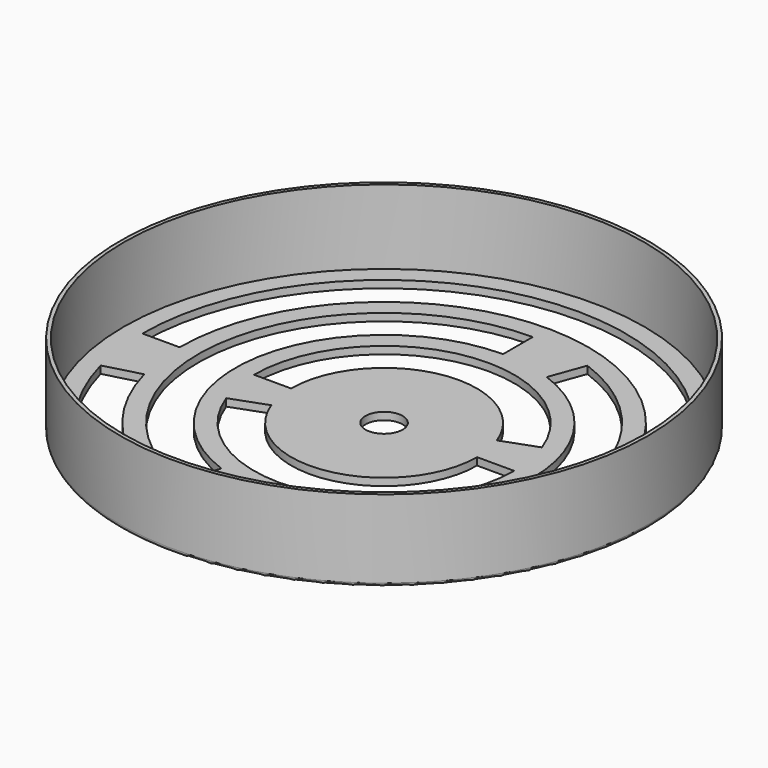
from build123d import *

# Parameters (mm, degrees)
F2_R     = 71
F2_R_2   = 70
F3_DEPTH = 22
F2_R_3   = 5
F4_DEPTH = 2
F5_R     = 1


with BuildPart() as f3:
    # F2 (on Top) → F3 (new body)
    with BuildSketch(Plane.XY):
        Circle(F2_R)
        Circle(F2_R_2, mode=Mode.SUBTRACT)
    extrude(amount=F3_DEPTH)

    # F2 (on Top) → F4 (join)
    with BuildSketch(Plane.XY):
        Circle(F2_R_2)
        with BuildLine():
            ThreePointArc((62.7851787088, 16.8232379317), (64.4439159893, 8.4842024943), (65, 0))
            ThreePointArc((65, 0), (8.4842024943, -64.4439159893), (-62.7851787088, -16.8232379317))
            ThreePointArc((-62.7851787088, -16.8232379317), (-64.4439159893, -8.4842024943), (-65, 0))
            ThreePointArc((-65, 0), (-8.4842024943, 64.4439159893), (62.7851787088, 16.8232379317))
        make_face(mode=Mode.SUBTRACT)
        with BuildLine():
            ThreePointArc((-53.1259204459, -14.2350474806), (7.1789405721, -54.5294673756), (55, 0))
            ThreePointArc((55, 0), (54.5294673756, 7.1789405721), (53.1259204459, 14.2350474806))
            ThreePointArc((53.1259204459, 14.2350474806), (-7.1789405721, 54.5294673756), (-55, 0))
            ThreePointArc((-55, 0), (-54.5294673756, -7.1789405721), (-53.1259204459, -14.2350474806))
        make_face()
        with BuildLine():
            ThreePointArc((17.1010071663, 46.9846310393), (40.9576022144, 28.6788218176), (50, 0))
            ThreePointArc((50, 0), (35.3553390593, -35.3553390593), (0, -50))
            ThreePointArc((0, -50), (-8.6824088833, -49.2403876506), (-17.1010071663, -46.9846310393))
            ThreePointArc((-17.1010071663, -46.9846310393), (-49.2403876506, 8.6824088833), (0, 50))
            ThreePointArc((0, 50), (8.6824088833, 49.2403876506), (17.1010071663, 46.9846310393))
        make_face(mode=Mode.SUBTRACT)
        with BuildLine():
            ThreePointArc((40, 0), (32.7660817716, 22.943057454), (13.680805733, 37.5877048314))
            ThreePointArc((13.680805733, 37.5877048314), (6.9459271067, 39.3923101205), (0, 40))
            ThreePointArc((0, 40), (-39.3923101205, 6.9459271067), (-13.680805733, -37.5877048314))
            ThreePointArc((-13.680805733, -37.5877048314), (-6.9459271067, -39.3923101205), (0, -40))
            ThreePointArc((0, -40), (28.2842712475, -28.2842712475), (40, 0))
        make_face()
        with BuildLine():
            ThreePointArc((32.8892417275, 11.9707050164), (34.4682713554, 6.0776862183), (35, 0))
            ThreePointArc((35, 0), (6.0776862183, -34.4682713554), (-32.8892417275, -11.9707050164))
            ThreePointArc((-32.8892417275, -11.9707050164), (-34.4682713554, -6.0776862183), (-35, 0))
            ThreePointArc((-35, 0), (-6.0776862183, 34.4682713554), (32.8892417275, 11.9707050164))
        make_face(mode=Mode.SUBTRACT)
        with BuildLine():
            ThreePointArc((-23.4923155196, -8.5505035831), (4.3412044417, -24.6201938253), (25, 0))
            ThreePointArc((25, 0), (24.6201938253, 4.3412044417), (23.4923155196, 8.5505035831))
            ThreePointArc((23.4923155196, 8.5505035831), (-4.3412044417, 24.6201938253), (-25, 0))
            ThreePointArc((-25, 0), (-24.6201938253, -4.3412044417), (-23.4923155196, -8.5505035831))
        make_face()
        Circle(F2_R_3, mode=Mode.SUBTRACT)
        with BuildLine():
            ThreePointArc((-17.1010071663, -46.9846310393), (-8.6824088833, -49.2403876506), (0, -50))
            Line((0, -50), (0, -40))
            ThreePointArc((0, -40), (-6.9459271067, -39.3923101205), (-13.680805733, -37.5877048314))
            Line((-13.680805733, -37.5877048314), (-17.1010071663, -46.9846310393))
        make_face()
        with BuildLine():
            Line((13.680805733, 37.5877048314), (17.1010071663, 46.9846310393))
            ThreePointArc((17.1010071663, 46.9846310393), (8.6824088833, 49.2403876506), (0, 50))
            Line((0, 50), (0, 40))
            ThreePointArc((0, 40), (6.9459271067, 39.3923101205), (13.680805733, 37.5877048314))
        make_face()
        with BuildLine():
            ThreePointArc((-65, 0), (-64.4439159893, -8.4842024943), (-62.7851787088, -16.8232379317))
            Line((-62.7851787088, -16.8232379317), (-53.1259204459, -14.2350474806))
            ThreePointArc((-53.1259204459, -14.2350474806), (-54.5294673756, -7.1789405721), (-55, 0))
            Line((-55, 0), (-65, 0))
        make_face()
        with BuildLine():
            Line((55, 0), (65, 0))
            ThreePointArc((65, 0), (64.4439159893, 8.4842024943), (62.7851787088, 16.8232379317))
            Line((62.7851787088, 16.8232379317), (53.1259204459, 14.2350474806))
            ThreePointArc((53.1259204459, 14.2350474806), (54.5294673756, 7.1789405721), (55, 0))
        make_face()
        with BuildLine():
            ThreePointArc((-35, 0), (-34.4682713554, -6.0776862183), (-32.8892417275, -11.9707050164))
            Line((-32.8892417275, -11.9707050164), (-23.4923155196, -8.5505035831))
            ThreePointArc((-23.4923155196, -8.5505035831), (-24.6201938253, -4.3412044417), (-25, 0))
            Line((-25, 0), (-35, 0))
        make_face()
        with BuildLine():
            Line((25, 0), (35, 0))
            ThreePointArc((35, 0), (34.4682713554, 6.0776862183), (32.8892417275, 11.9707050164))
            Line((32.8892417275, 11.9707050164), (23.4923155196, 8.5505035831))
            ThreePointArc((23.4923155196, 8.5505035831), (24.6201938253, 4.3412044417), (25, 0))
        make_face()
    extrude(amount=F4_DEPTH)

    # F5
    f5_edges = [f3.edges().sort_by_distance(p)[0] for p in [
        (-71, 0, 0),
    ]]
    fillet(f5_edges, radius=F5_R)


solid = f3.part
